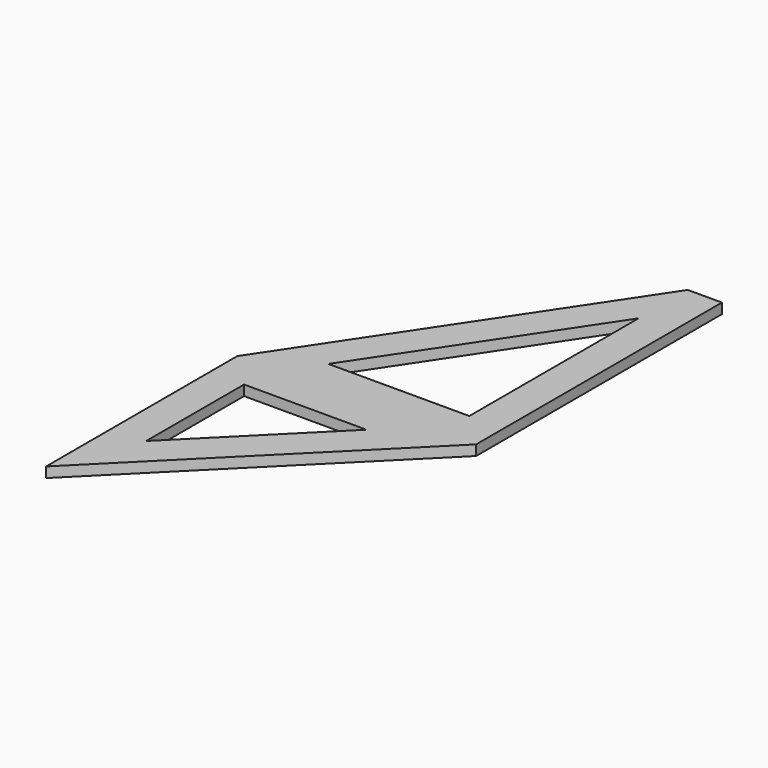
from build123d import *

# Parameters (mm, degrees)
F1_DEPTH = 1.5


with BuildPart() as f1:
    # F0 (on Top) → F1 (new body)
    with BuildSketch(Plane.XY):
        Polygon((30, 45), (0, 0), (35, 0), (35, 45), align=None)
        Polygon((9.342585, 5), (30, 35.986122), (30, 5), align=None, mode=Mode.SUBTRACT)
        Polygon((35, 0), (0, 0), (0, -35), align=None)
        Polygon((5, -22.928932), (5, -5), (22.928932, -5), align=None, mode=Mode.SUBTRACT)
    extrude(amount=F1_DEPTH)


solid = f1.part
